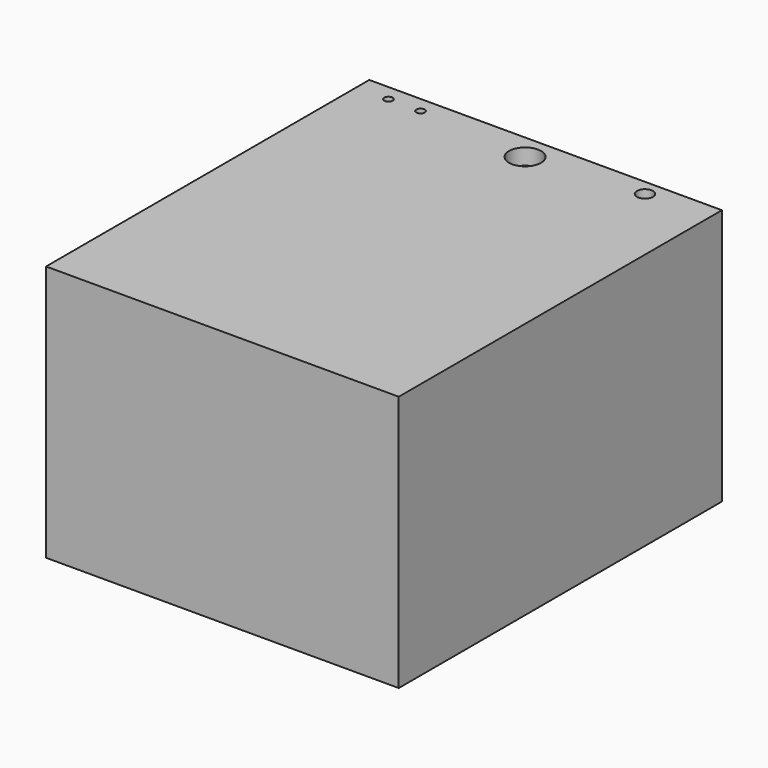
from build123d import *

# Parameters (mm, degrees)
F0_W     = 550
F0_H     = 630
F1_DEPTH = 400
F2_R     = 19
F3_DEPTH = 25
F4_R     = 12.5
F4_R_2   = 6.5
F4_R_3   = 25
F5_DEPTH = 25


with BuildPart() as f1:
    # F0 (on Top) → F1 (new body)
    with BuildSketch(Plane.XY):
        with Locations((-140.332877, -328.302423)):
            Rectangle(F0_W, F0_H)
    extrude(amount=-F1_DEPTH)

    # F2 (on face) → F3 (cut)
    with BuildSketch(Plane(origin=(0, 0, -400), x_dir=(1, 0, 0), z_dir=(0, 0, -1))):
        with Locations((-315.332877, 133.302423)):
            Circle(F2_R)
    extrude(amount=-F3_DEPTH, mode=Mode.SUBTRACT)

    # F4 (on face) → F5 (cut)
    with BuildSketch(Plane.XY):
        with Locations((34.667123, -38.302423)):
            Circle(F4_R)
        with Locations((-365.332877, -38.302423)):
            Circle(F4_R_2)
        with Locations((-140.332877, -53.302423)):
            Circle(F4_R_3)
        with Locations((-315.332877, -38.302423)):
            Circle(F4_R_2)
    extrude(amount=-F5_DEPTH, mode=Mode.SUBTRACT)


solid = f1.part
